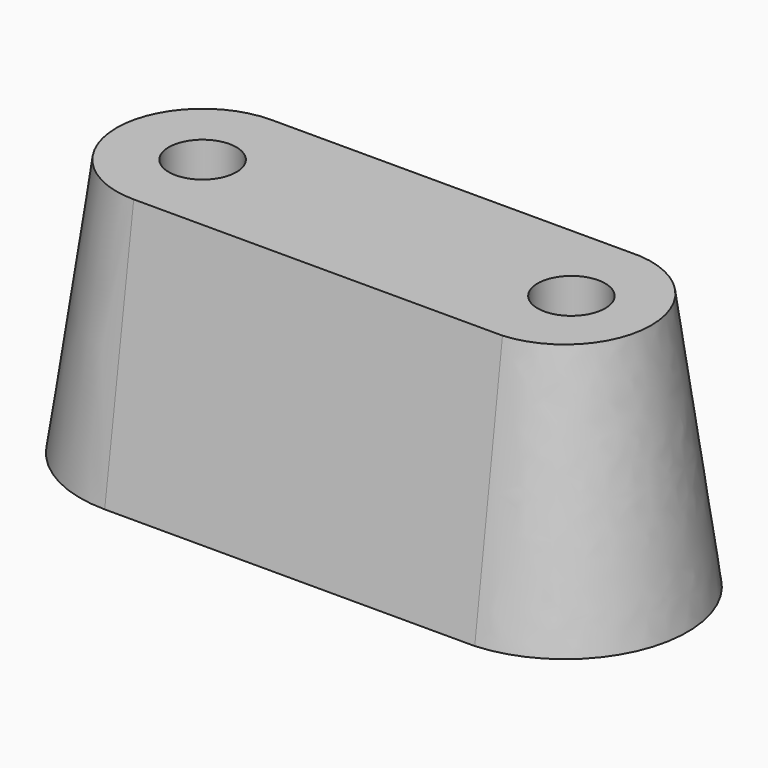
from build123d import *

# Parameters (mm, degrees)
F0_R     = 2.75
F1_DEPTH = 21
F1_TAPER = -8
F2_DEPTH = 21.0010001


with BuildPart() as f1:
    # F0 (on Top) → F1 (new body)
    with BuildSketch(Plane.XY):
        with BuildLine():
            ThreePointArc((15.2546531369, -7.0046531369), (21.75, 0), (15.2546531369, 7.0046531369))
            Line((15.2546531369, 7.0046531369), (-14.7453468631, 7.0046531369))
            ThreePointArc((-14.7453468631, 7.0046531369), (-21.75, 0), (-14.7453468631, -7.0046531369))
            Line((-14.7453468631, -7.0046531369), (15.2546531369, -7.0046531369))
        make_face()
        with Locations((-14.7453468631, 0)):
            Circle(F0_R, mode=Mode.SUBTRACT)
        with Locations((15.2546531369, 0)):
            Circle(F0_R, mode=Mode.SUBTRACT)
        with Locations((15.2546531369, 0)):
            Circle(F0_R)
        with Locations((-14.7453468631, 0)):
            Circle(F0_R)
    extrude(amount=-F1_DEPTH, taper=F1_TAPER)

    # F0 (on Top) → F2 (cut, through all)
    with BuildSketch(Plane.XY):
        with Locations((15.2546531369, 0)):
            Circle(F0_R)
        with Locations((-14.7453468631, 0)):
            Circle(F0_R)
    extrude(amount=-F2_DEPTH, mode=Mode.SUBTRACT)


solid = f1.part
